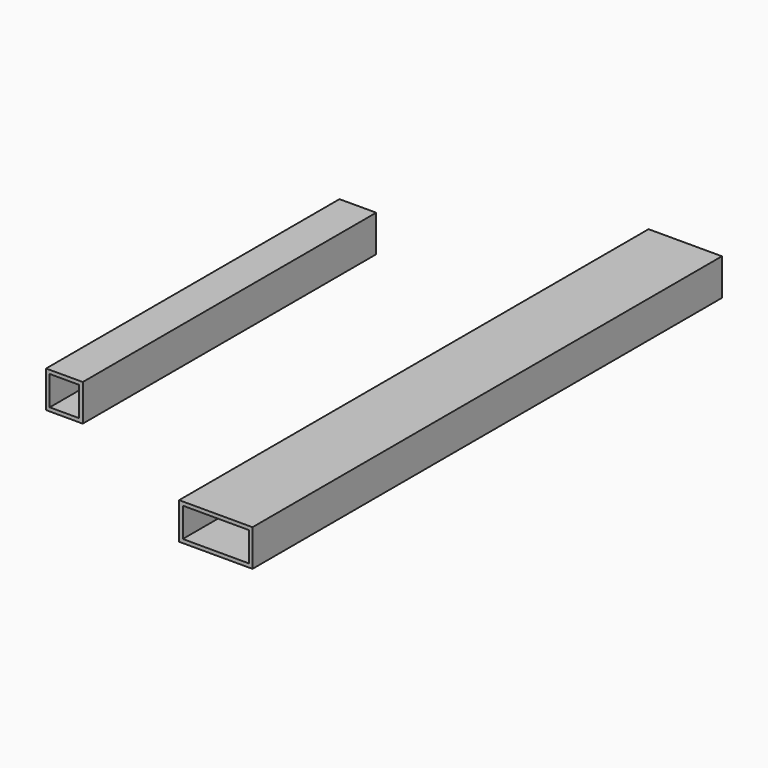
from build123d import *

# Parameters (mm, degrees)
F0_W     = 50.8
F0_H     = 406.4
F1_DEPTH = 12.7
F2_T     = -2.54
F3_W     = 25.4
F3_H     = 254
F4_DEPTH = 12.7
F5_T     = -2.54


with BuildPart() as f1:
    # F0 (on Top) → F1 (new body, symmetric)
    with BuildSketch(Plane.XY):
        with Locations((11.285979, -35.275271)):
            Rectangle(F0_W, F0_H)
    extrude(amount=F1_DEPTH, both=True)

    # F2
    f2_openings = [f1.faces().sort_by_distance(p)[0] for p in [
        (11.285979, 167.924729, 0),
        (11.285979, -238.475271, 0),
    ]]
    offset(amount=F2_T, openings=f2_openings)


with BuildPart() as f4:
    # F3 (on Top) → F4 (new body, symmetric)
    with BuildSketch(Plane.XY):
        with Locations((-153.918764, -36.02155)):
            Rectangle(F3_W, F3_H)
    extrude(amount=F4_DEPTH, both=True)

    # F5
    f5_openings = [f4.faces().sort_by_distance(p)[0] for p in [
        (-153.918764, 90.97845, 0),
        (-153.918764, -163.02155, 0),
    ]]
    offset(amount=F5_T, openings=f5_openings)


solid = Compound([f1.part, f4.part])
